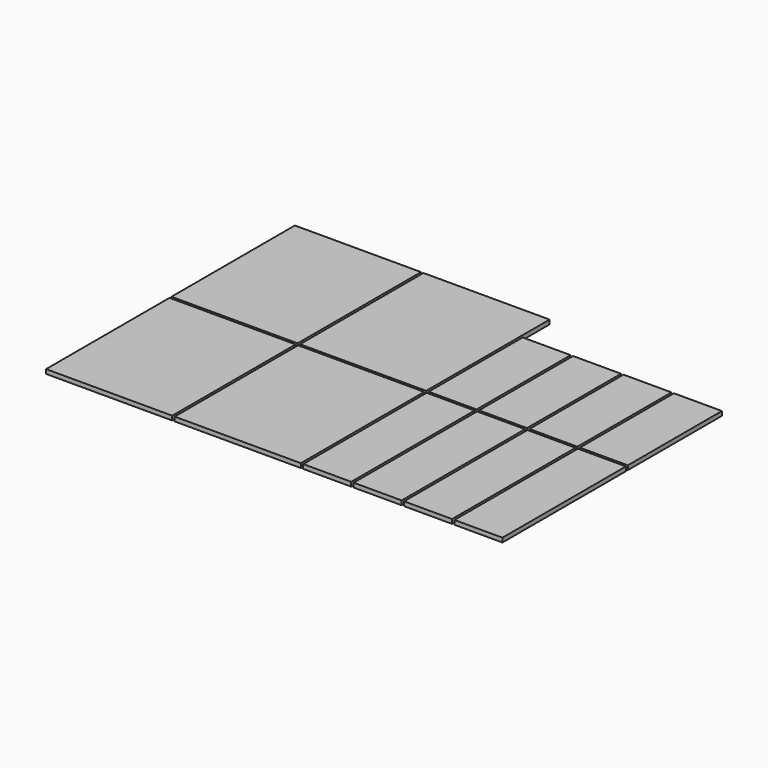
from build123d import *

# Parameters (mm, degrees)
F0_W     = 165.1
F0_H     = 201.93
F0_W_2   = 62.80912
F0_H_2   = 153.924
F1_DEPTH = 5.588


with BuildPart() as f1:
    # F0 (on Top) → F1 (new body)
    with BuildSketch(Plane.XY):
        with Locations((250.825, 100.965)):
            Rectangle(F0_W, F0_H)
        with Locations((565.90692, 100.965)):
            Rectangle(F0_W_2, F0_H)
        with Locations((433.93868, 282.067)):
            Rectangle(F0_W_2, F0_H_2)
        with Locations((433.93868, 100.965)):
            Rectangle(F0_W_2, F0_H)
        with Locations((82.55, 306.07)):
            Rectangle(F0_W, F0_H)
        with Locations((367.95456, 100.965)):
            Rectangle(F0_W_2, F0_H)
        with Locations((250.825, 306.07)):
            Rectangle(F0_W, F0_H)
        with Locations((82.55, 100.965)):
            Rectangle(F0_W, F0_H)
        with Locations((499.9228, 282.067)):
            Rectangle(F0_W_2, F0_H_2)
        with Locations((367.95456, 282.067)):
            Rectangle(F0_W_2, F0_H_2)
        with Locations((499.9228, 100.965)):
            Rectangle(F0_W_2, F0_H)
        with Locations((565.90692, 282.067)):
            Rectangle(F0_W_2, F0_H_2)
    extrude(amount=F1_DEPTH)


solid = f1.part
